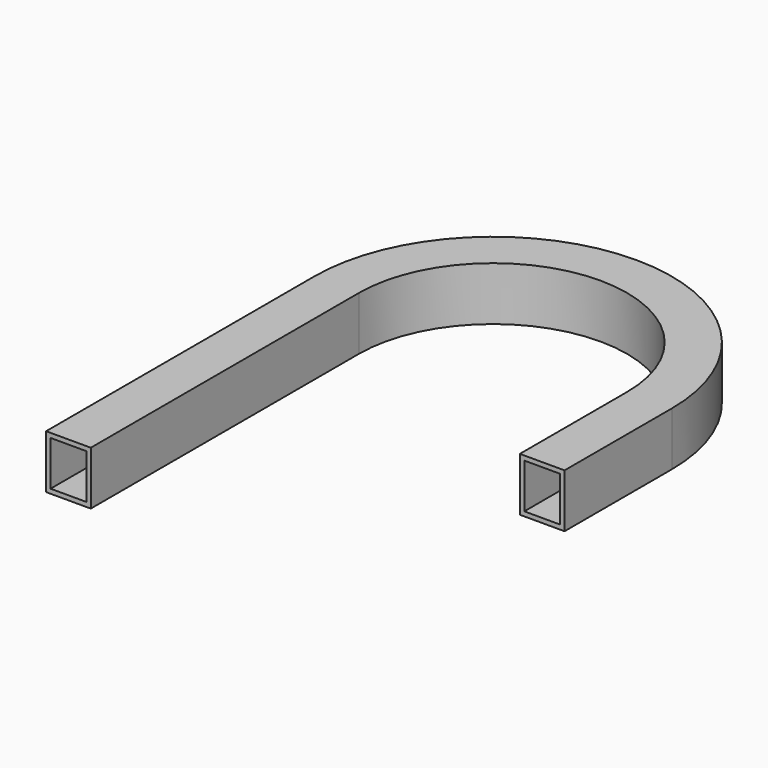
from build123d import *

# Parameters (mm, degrees)
F1_DEPTH = 6
F2_W     = 4
F2_H     = 5
F3_DEPTH = 15
F4_W     = 4
F4_H     = 5
F5_DEPTH = 35


with BuildPart() as f1:
    # F0 (on Top) → F1 (new body)
    with BuildSketch(Plane.XY):
        with BuildLine():
            ThreePointArc((-15, 0), (0, 15), (15, 0))
            Line((15, 0), (15, -15))
            Line((15, -15), (20, -15))
            Line((20, -15), (20, 0))
            ThreePointArc((20, 0), (0, 20), (-20, 0))
            Line((-20, 0), (-20, -37.512027))
            Line((-20, -37.512027), (-15, -37.512027))
            Line((-15, -37.512027), (-15, 0))
        make_face()
    extrude(amount=F1_DEPTH)

    # F2 (on face) → F3 (cut)
    with BuildSketch(Plane.XZ.offset(15)):
        with Locations((17.5, 3)):
            Rectangle(F2_W, F2_H)
    extrude(amount=-F3_DEPTH, mode=Mode.SUBTRACT)

    # F4 (on face) → F5 (cut)
    with BuildSketch(Plane.XZ.offset(37.512027)):
        with Locations((-17.5, 3)):
            Rectangle(F4_W, F4_H)
    extrude(amount=-F5_DEPTH, mode=Mode.SUBTRACT)


solid = f1.part
